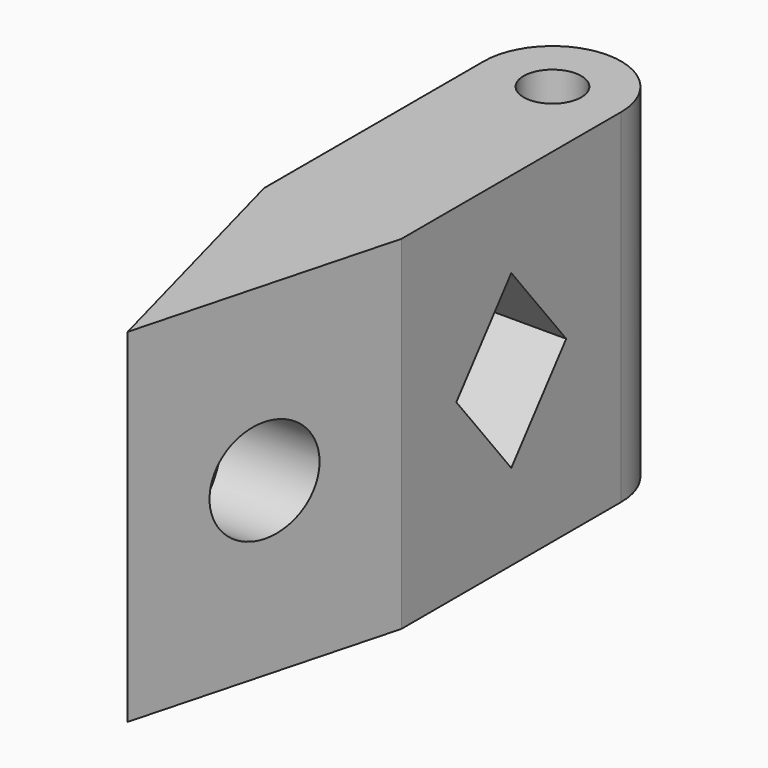
from build123d import *

# Parameters (mm, degrees)
F0_W     = 10
F0_H     = 20
F1_DEPTH = 25
F3_DEPTH = 10.001
F4_R     = 3.75
F5_DEPTH = 12.5
F7_D     = 4.2
F7_DEPTH = 14.4
F7_TIP   = 1.2618073


with BuildPart() as f1:
    # F0 (on Top) → F1 (new body)
    with BuildSketch(Plane.XY):
        Polygon((0, -22.2465131165), (5, -3.5862590786), (-5, -3.5862590786), align=None)
        with Locations((0, 6.4137409214)):
            Rectangle(F0_W, F0_H)
        with BuildLine():
            Line((-5, 16.4137409214), (5, 16.4137409214))
            ThreePointArc((5, 16.4137409214), (0, 21.4137409214), (-5, 16.4137409214))
        make_face()
    extrude(amount=F1_DEPTH)

    # F2 (on face) → F3 (cut, through all)
    with BuildSketch(Plane.YZ.offset(5)):
        Polygon((11.4137409214, 12.5), (6.4137409214, 18.75), (1.4137409214, 12.5), (6.4137409214, 6.25), align=None)
    extrude(amount=-F3_DEPTH, mode=Mode.SUBTRACT)

    # F4 (on Right) → F5 (cut, symmetric)
    with BuildSketch(Plane.YZ):
        with Locations((-12.9163860975, 12.5)):
            Circle(F4_R)
    extrude(amount=F5_DEPTH, both=True, mode=Mode.SUBTRACT)

    # F7
    with Locations(Plane.XY.offset(25)):
        with Locations((0, 16.4137409214)):
            Hole(F7_D / 2, depth=F7_DEPTH)
            with Locations((0, 0, -(F7_DEPTH + F7_TIP / 2))):  # 118° drill point
                Cone(0, F7_D / 2, F7_TIP, mode=Mode.SUBTRACT)


solid = f1.part
